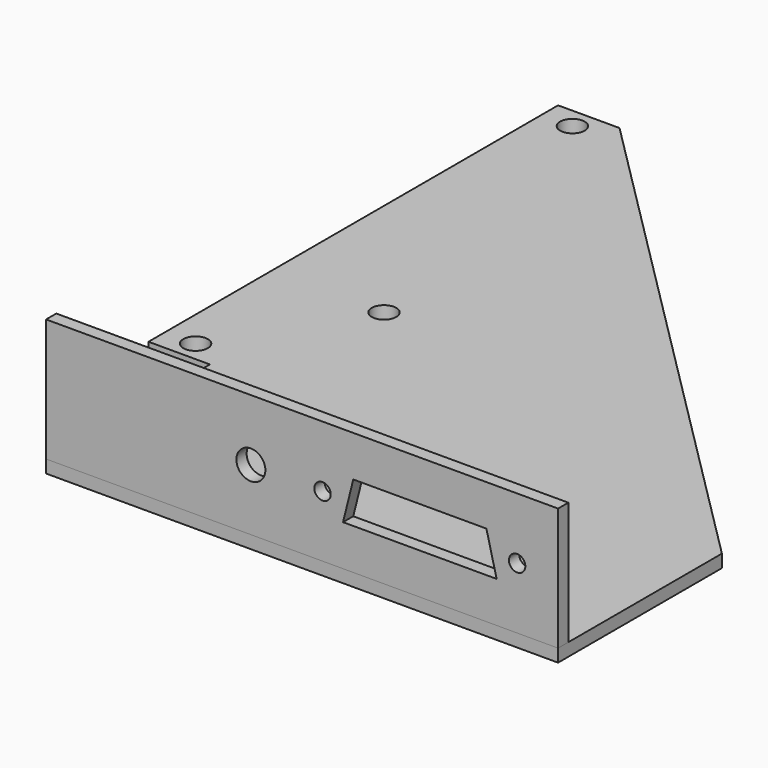
from build123d import *

# Parameters (mm, degrees)
SKETCH_R      = 1.524
PAD_DEPTH     = 1.5875
SKETCH001_W   = 63.5
SKETCH001_H   = 15.24
SKETCH001_R   = 1.796051
SKETCH001_R_2 = 1.016
PAD001_DEPTH  = 1.5875


with BuildPart() as raspi_base:
    # Sketch → Pad (new body)
    with BuildSketch(Plane.XY):
        Polygon((63.5, 0), (0, 63.5), (-7.62, 63.5), (-7.62, 0), (0, 0), (0, -25.4), (63.5, -25.4), align=None)
        with Locations((-3.81, 2.54)):
            Circle(SKETCH_R, mode=Mode.SUBTRACT)
        with Locations((-3.81, 60.96)):
            Circle(SKETCH_R, mode=Mode.SUBTRACT)
        with Locations((6.35, 19.05)):
            Circle(SKETCH_R, mode=Mode.SUBTRACT)
    extrude(amount=PAD_DEPTH)


with BuildPart() as raspi_cons:
    # Sketch001 → Pad001 (new body)
    with BuildSketch(Plane.XZ):
        with Locations((31.75, 7.62)):
            Rectangle(SKETCH001_W, SKETCH001_H)
        with Locations((25.4, 7.62)):
            Circle(SKETCH001_R, mode=Mode.SUBTRACT)
        with Locations((58.42, 7.62)):
            Circle(SKETCH001_R_2, mode=Mode.SUBTRACT)
        with Locations((34.29, 7.62)):
            Circle(SKETCH001_R_2, mode=Mode.SUBTRACT)
        Polygon((38.1, 10.16), (36.83, 5.08), (55.88, 5.08), (54.61, 10.16), align=None, mode=Mode.SUBTRACT)
    extrude(amount=PAD001_DEPTH)


with BuildPart() as raspi_cons_1:
    # Body001 placement: moved
    add(raspi_cons.part.moved(Location((0, -23.8125, 1.5875))))


solid = Compound([raspi_base.part, raspi_cons_1.part])
